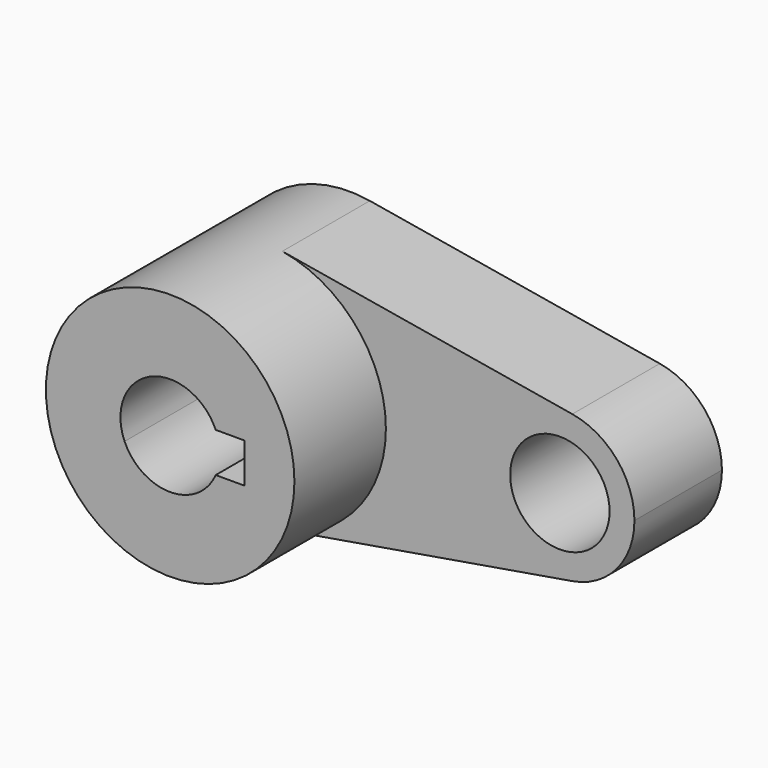
from build123d import *

# Parameters (mm, degrees)
F0_R     = 12.7
F1_DEPTH = 27.94
F2_DEPTH = 57.15


with BuildPart() as f1:
    # F0 (on Front) → F1 (new body)
    with BuildSketch(Plane.XZ):
        with BuildLine():
            ThreePointArc((5.2916666667, -31.3059221856), (24.2494630525, -20.4945368737), (31.75, 0))
            ThreePointArc((31.75, 0), (24.2494630525, 20.4945368737), (5.2916666667, 31.3059221856))
            ThreePointArc((5.2916666667, 31.3059221856), (-31.75, 0), (5.2916666667, -31.3059221856))
        make_face()
        with BuildLine():
            ThreePointArc((-11.6397422652, 5.08), (0, 12.7), (11.6397422652, 5.08))
            Line((11.6397422652, 5.08), (19.05, 5.08))
            Line((19.05, 5.08), (19.05, -5.08))
            Line((19.05, -5.08), (11.6397422652, -5.08))
            ThreePointArc((11.6397422652, -5.08), (0, -12.7), (-11.6397422652, -5.08))
            Line((-11.6397422652, -5.08), (-19.05, -5.08))
            Line((-19.05, -5.08), (-19.05, 5.08))
            Line((-19.05, 5.08), (-11.6397422652, 5.08))
        make_face(mode=Mode.SUBTRACT)
        with BuildLine():
            ThreePointArc((-11.6397422652, -5.08), (0, -12.7), (11.6397422652, -5.08))
            Line((11.6397422652, -5.08), (-11.6397422652, -5.08))
        make_face()
        with BuildLine():
            ThreePointArc((5.2916666667, 31.3059221856), (24.2494630525, 20.4945368737), (31.75, 0))
            ThreePointArc((31.75, 0), (24.2494630525, -20.4945368737), (5.2916666667, -31.3059221856))
            Line((5.2916666667, -31.3059221856), (79.375, -18.7835533113))
            ThreePointArc((79.375, -18.7835533113), (57.15, 0), (79.375, 18.7835533113))
            Line((79.375, 18.7835533113), (5.2916666667, 31.3059221856))
        make_face()
        with BuildLine():
            ThreePointArc((95.25, 0), (90.7496778315, 12.2967221242), (79.375, 18.7835533113))
            ThreePointArc((79.375, 18.7835533113), (57.15, 0), (79.375, -18.7835533113))
            ThreePointArc((79.375, -18.7835533113), (90.7496778315, -12.2967221242), (95.25, 0))
        make_face()
        with Locations((76.2, 0)):
            Circle(F0_R, mode=Mode.SUBTRACT)
    extrude(amount=F1_DEPTH)

    # F0 (on Front) → F2 (join)
    with BuildSketch(Plane.XZ):
        with BuildLine():
            ThreePointArc((5.2916666667, -31.3059221856), (24.2494630525, -20.4945368737), (31.75, 0))
            ThreePointArc((31.75, 0), (24.2494630525, 20.4945368737), (5.2916666667, 31.3059221856))
            ThreePointArc((5.2916666667, 31.3059221856), (-31.75, 0), (5.2916666667, -31.3059221856))
        make_face()
        with BuildLine():
            ThreePointArc((-11.6397422652, 5.08), (0, 12.7), (11.6397422652, 5.08))
            Line((11.6397422652, 5.08), (19.05, 5.08))
            Line((19.05, 5.08), (19.05, -5.08))
            Line((19.05, -5.08), (11.6397422652, -5.08))
            ThreePointArc((11.6397422652, -5.08), (0, -12.7), (-11.6397422652, -5.08))
            Line((-11.6397422652, -5.08), (-19.05, -5.08))
            Line((-19.05, -5.08), (-19.05, 5.08))
            Line((-19.05, 5.08), (-11.6397422652, 5.08))
        make_face(mode=Mode.SUBTRACT)
        with BuildLine():
            ThreePointArc((-11.6397422652, -5.08), (-12.7, 0), (-11.6397422652, 5.08))
            Line((-11.6397422652, 5.08), (-19.05, 5.08))
            Line((-19.05, 5.08), (-19.05, -5.08))
            Line((-19.05, -5.08), (-11.6397422652, -5.08))
        make_face()
    extrude(amount=F2_DEPTH)


solid = f1.part
